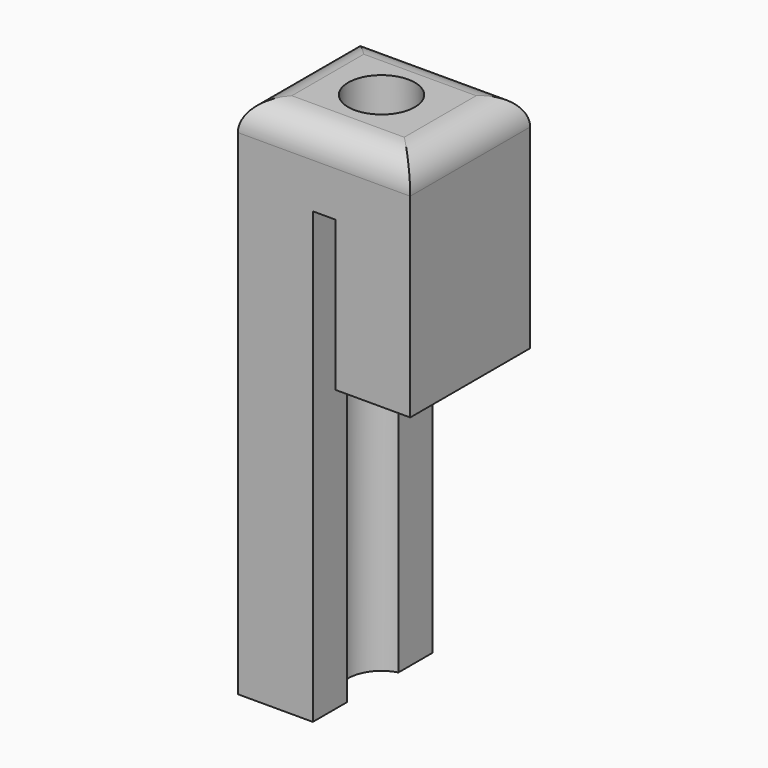
from build123d import *

# Parameters (mm, degrees)
F1_DEPTH = 5
F2_R     = 2
F3_R     = 2.224598
F4_DEPTH = 35.001


with BuildPart() as f1:
    # F0 (on Front) → F1 (new body, symmetric)
    with BuildSketch(Plane.XZ):
        Polygon((53.206599, 9.36247), (53.206599, 39.36247), (54.706599, 39.36247), (54.706599, 29.36247), (59.706599, 29.36247), (59.706599, 44.36247), (48.206599, 44.36247), (48.206599, 9.36247), align=None)
    extrude(amount=F1_DEPTH, both=True)

    # F2
    f2_edges = [f1.edges().sort_by_distance(p)[0] for p in [
        (59.706599, 0, 44.36247),
        (53.956599, 5, 44.36247),
        (53.956599, -5, 44.36247),
        (48.206599, 0, 44.36247),
    ]]
    fillet(f2_edges, radius=F2_R)

    # F3 (on face) → F4 (cut, through all)
    with BuildSketch(Plane.XY.offset(44.36247)):
        with Locations((53.791892, 0)):
            Circle(F3_R)
    extrude(amount=-F4_DEPTH, mode=Mode.SUBTRACT)


solid = f1.part
